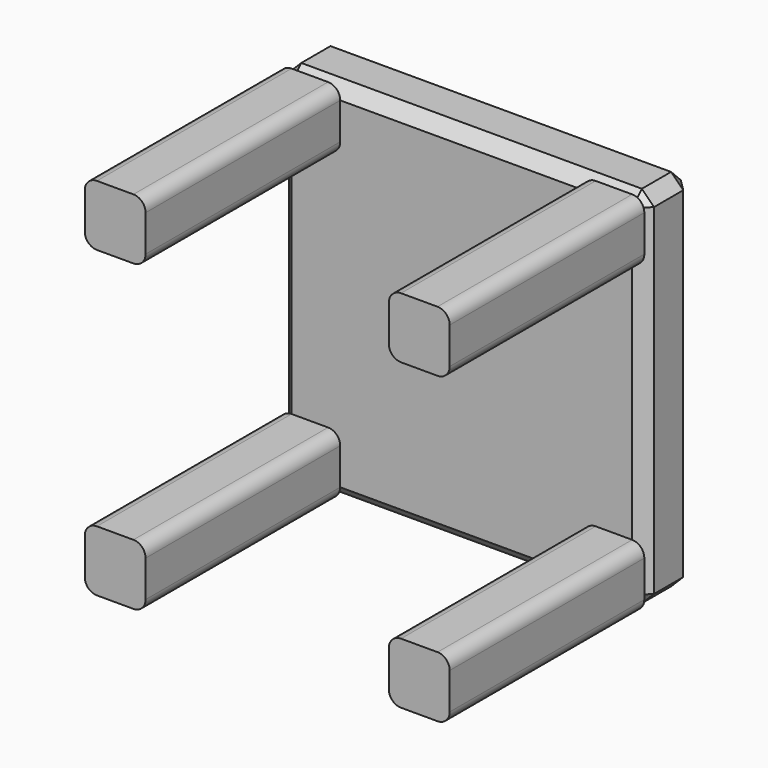
from build123d import *

# Parameters (mm, degrees)
F0_W     = 25.4
F0_H     = 25.4
F1_DEPTH = 101.6
F2_DEPTH = 25.4
F3_R     = 5.08
F4_R     = 5.08
F5_R     = 5.08
F6_R     = 5.08
F7_SIZE  = 5.08


with BuildPart() as f1:
    # F0 (on Front) → F1 (new body)
    with BuildSketch(Plane.XZ):
        with Locations((-63.5, 63.5)):
            Rectangle(F0_W, F0_H)
        with Locations((63.5, 63.5)):
            Rectangle(F0_W, F0_H)
        with Locations((63.5, -63.5)):
            Rectangle(F0_W, F0_H)
        with Locations((-63.5, -63.5)):
            Rectangle(F0_W, F0_H)
    extrude(amount=F1_DEPTH)

    # F3
    f3_edges = [f1.edges().sort_by_distance(p)[0] for p in [
        (76.2, -50.8, -50.8),
        (76.2, -50.8, -76.2),
        (50.8, -50.8, -76.2),
        (50.8, -50.8, -50.8),
    ]]
    fillet(f3_edges, radius=F3_R)

    # F4
    f4_edges = [f1.edges().sort_by_distance(p)[0] for p in [
        (-76.2, -50.8, -76.2),
        (-76.2, -50.8, -50.8),
        (-50.8, -50.8, -76.2),
        (-50.8, -50.8, -50.8),
    ]]
    fillet(f4_edges, radius=F4_R)

    # F5
    f5_edges = [f1.edges().sort_by_distance(p)[0] for p in [
        (76.2, -50.8, 50.8),
        (50.8, -50.8, 50.8),
        (76.2, -50.8, 76.2),
        (50.8, -50.8, 76.2),
    ]]
    fillet(f5_edges, radius=F5_R)

    # F6
    f6_edges = [f1.edges().sort_by_distance(p)[0] for p in [
        (-76.2, -50.8, 76.2),
        (-50.8, -50.8, 76.2),
        (-50.8, -50.8, 50.8),
        (-76.2, -50.8, 50.8),
    ]]
    fillet(f6_edges, radius=F6_R)


with BuildPart() as f2:
    # F0 (on Front) → F2 (new body)
    with BuildSketch(Plane.XZ):
        Polygon((50.8, 76.2), (-50.8, 76.2), (-50.8, 50.8), (-76.2, 50.8), (-76.2, -50.8), (-50.8, -50.8), (-50.8, -76.2), (50.8, -76.2), (50.8, -50.8), (76.2, -50.8), (76.2, 50.8), (50.8, 50.8), align=None)
        with Locations((63.5, -63.5)):
            Rectangle(F0_W, F0_H)
        with Locations((63.5, 63.5)):
            Rectangle(F0_W, F0_H)
        with Locations((-63.5, 63.5)):
            Rectangle(F0_W, F0_H)
        with Locations((-63.5, -63.5)):
            Rectangle(F0_W, F0_H)
    extrude(amount=-F2_DEPTH)

    # F7
    f7_edges = [f2.edges().sort_by_distance(p)[0] for p in [
        (0, 25.4, -76.2),
        (76.2, 12.7, -76.2),
        (0, 0, -76.2),
        (-76.2, 12.7, -76.2),
        (76.2, 12.7, 76.2),
        (76.2, 0, 0),
        (76.2, 25.4, 0),
        (0, 25.4, 76.2),
        (-76.2, 12.7, 76.2),
        (0, 0, 76.2),
        (-76.2, 25.4, 0),
        (-76.2, 0, 0),
    ]]
    chamfer(f7_edges, length=F7_SIZE)


solid = Compound([f1.part, f2.part])
